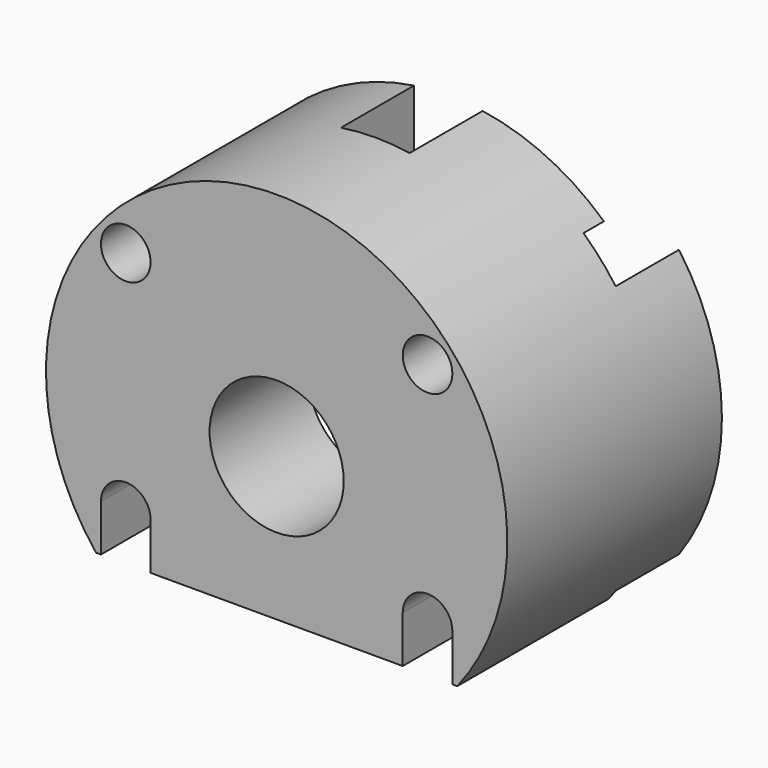
from build123d import *

# Parameters (mm, degrees)
F0_R           = 6.35
F1_DEPTH       = 25.4
F2_R           = 6.35
F3_DEPTH       = 13.716
F5_DEPTH       = 7.493
F6_DEPTH       = 5.08
F8_D           = 2.921
F8_CBORE_D     = 4.699
F8_CBORE_DEPTH = 10.922
F9_DEPTH       = 10.922
F10_DEPTH      = 17.907


with BuildPart() as f1:
    # F0 (on Front) → F1 (new body)
    with BuildSketch(Plane.XZ):
        with BuildLine():
            Line((0, -13.589), (17.1026142738, -13.589))
            ThreePointArc((17.1026142738, -13.589), (0, 21.844), (-17.1026142738, -13.589))
            Line((-17.1026142738, -13.589), (0, -13.589))
        make_face()
        Circle(F0_R, mode=Mode.SUBTRACT)
    extrude(amount=F1_DEPTH)

    # F2 (on face) → F3 (cut)
    with BuildSketch(Plane(origin=(0, 0, 0), x_dir=(-1, 0, 0), z_dir=(0, 1, 0))):
        with BuildLine():
            Line((-3.2512, 21.6006952333), (-3.2512, 15.5385109827))
            ThreePointArc((-3.2512, 15.5385109827), (-15.6500961726, 2.6627269459), (-8.2069911661, -13.589))
            Line((-8.2069911661, -13.589), (8.2069911661, -13.589))
            ThreePointArc((8.2069911661, -13.589), (15.6500961726, 2.6627269459), (3.2512, 15.5385109827))
            Line((3.2512, 15.5385109827), (3.2512, 21.6006952333))
            ThreePointArc((3.2512, 21.6006952333), (0, 21.844), (-3.2512, 21.6006952333))
        make_face()
        Circle(F2_R, mode=Mode.SUBTRACT)
    extrude(amount=-F3_DEPTH, mode=Mode.SUBTRACT)

    # F4 (on face) → F5 (cut)
    with BuildSketch(Plane(origin=(0, 0, 0), x_dir=(-1, 0, 0), z_dir=(0, 1, 0))):
        with BuildLine():
            Line((-17.1026142738, -13.589), (-8.2069911661, -13.589))
            ThreePointArc((-8.2069911661, -13.589), (-15.6500961726, 2.6627269459), (-3.2512, 15.5385109827))
            Line((-3.2512, 15.5385109827), (-3.2512, 16.129))
            Line((-3.2512, 16.129), (-14.731452576, 16.129))
            ThreePointArc((-14.731452576, 16.129), (-16.3464246709, 14.4898149222), (-17.78, 12.6898359327))
            Line((-17.78, 12.6898359327), (-17.78, -12.6898359327))
            ThreePointArc((-17.78, -12.6898359327), (-17.44710058, -13.1437824598), (-17.1026142738, -13.589))
        make_face()
        with BuildLine():
            Line((-8.2069911661, -13.589), (0, -13.589))
            Line((0, -13.589), (17.78, -13.589))
            Line((17.78, -13.589), (17.78, 16.129))
            Line((17.78, 16.129), (-3.2512, 16.129))
            Line((-3.2512, 16.129), (-3.2512, 15.5385109827))
            ThreePointArc((-3.2512, 15.5385109827), (-15.6500961726, 2.6627269459), (-8.2069911661, -13.589))
        make_face()
    extrude(amount=-F5_DEPTH, mode=Mode.SUBTRACT)

    # F6 (cut): faces of the model
    f6_faces = [f1.faces().sort_by_distance(p)[0] for p in [
        (7.5018293791, 0, 18.2089166426),
        (-7.5018293791, 0, 18.2089166426),
    ]]
    extrude(f6_faces, amount=-F6_DEPTH, mode=Mode.SUBTRACT)

    # F8 (through all)
    with Locations(Plane.XZ.offset(25.4)):
        with Locations((-14.2875, -9.1525132509), (-14.2875, 12.3104867491), (14.2875, 12.3104867491), (14.2875, -9.1525132509)):
            CounterBoreHole(F8_D / 2, F8_CBORE_D / 2, F8_CBORE_DEPTH)

    # F7 (on face) → F9 (cut)
    with BuildSketch(Plane.XZ.offset(25.4)):
        with BuildLine():
            Line((-12.827, -13.589), (-11.938, -13.589))
            Line((-11.938, -13.589), (-11.938, -9.1525132509))
            ThreePointArc((-11.938, -9.1525132509), (-12.1990496422, -8.0761650949), (-12.9241888511, -7.239))
            Line((-12.9241888511, -7.239), (-13.6989384625, -7.239))
            ThreePointArc((-13.6989384625, -7.239), (-13.8035807397, -7.0374139258), (-13.9052567889, -6.8343155938))
            ThreePointArc((-13.9052567889, -6.8343155938), (-15.8077088385, -7.3611128665), (-16.637, -9.1525132509))
            Line((-16.637, -9.1525132509), (-16.637, -13.589))
            Line((-16.637, -13.589), (-15.748, -13.589))
            Line((-15.748, -13.589), (-15.748, -9.1525132509))
            ThreePointArc((-15.748, -9.1525132509), (-14.2875, -7.6920132509), (-12.827, -9.1525132509))
            Line((-12.827, -9.1525132509), (-12.827, -13.589))
        make_face()
        with BuildLine():
            ThreePointArc((12.827, -9.1525132509), (14.2875, -7.6920132509), (15.748, -9.1525132509))
            Line((15.748, -9.1525132509), (15.748, -13.589))
            Line((15.748, -13.589), (16.637, -13.589))
            Line((16.637, -13.589), (16.637, -9.1525132509))
            ThreePointArc((16.637, -9.1525132509), (15.8077088385, -7.3611128665), (13.9052567889, -6.8343155938))
            ThreePointArc((13.9052567889, -6.8343155938), (13.8035807397, -7.0374139258), (13.6989384625, -7.239))
            Line((13.6989384625, -7.239), (12.9241888511, -7.239))
            ThreePointArc((12.9241888511, -7.239), (12.1990496422, -8.0761650949), (11.938, -9.1525132509))
            Line((11.938, -9.1525132509), (11.938, -13.589))
            Line((11.938, -13.589), (12.827, -13.589))
            Line((12.827, -13.589), (12.827, -9.1525132509))
        make_face()
    extrude(amount=-F9_DEPTH, mode=Mode.SUBTRACT)

    # F7 (on face) → F10 (cut)
    with BuildSketch(Plane.XZ.offset(25.4)):
        with BuildLine():
            Line((-15.748, -13.589), (-12.827, -13.589))
            Line((-12.827, -13.589), (-12.827, -9.1525132509))
            ThreePointArc((-12.827, -9.1525132509), (-14.2875, -7.6920132509), (-15.748, -9.1525132509))
            Line((-15.748, -9.1525132509), (-15.748, -13.589))
        make_face()
        with BuildLine():
            Line((15.748, -13.589), (15.748, -9.1525132509))
            ThreePointArc((15.748, -9.1525132509), (14.2875, -7.6920132509), (12.827, -9.1525132509))
            Line((12.827, -9.1525132509), (12.827, -13.589))
            Line((12.827, -13.589), (15.748, -13.589))
        make_face()
    extrude(amount=-F10_DEPTH, mode=Mode.SUBTRACT)


solid = f1.part
